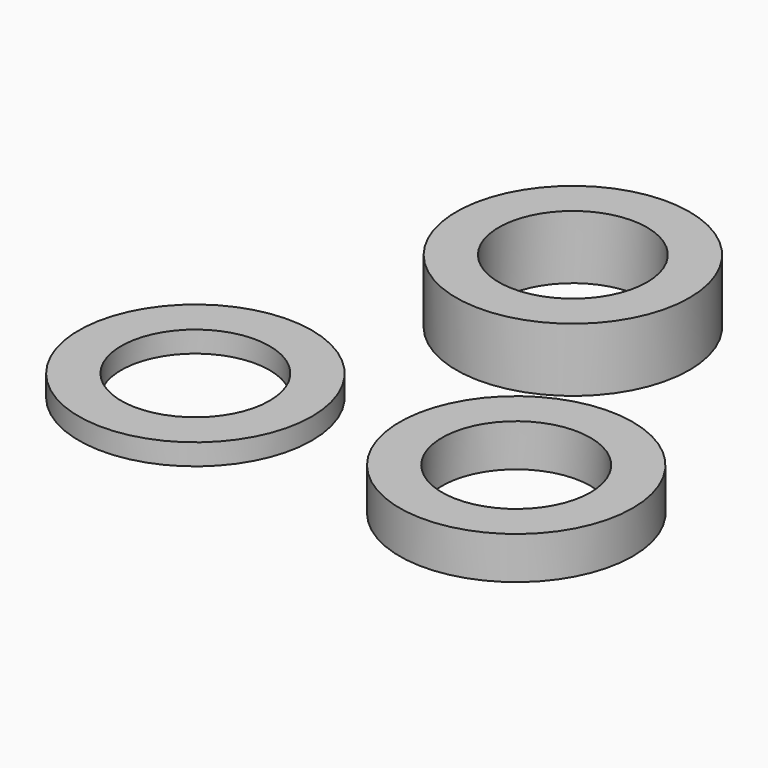
from build123d import *

# Parameters (mm, degrees)
F0_R     = 5.5
F0_R_2   = 3.5
F1_DEPTH = 1
F2_DEPTH = 2
F3_DEPTH = 3


with BuildPart() as f1:
    # F0 (on Top) → F1 (new body)
    with BuildSketch(Plane.XY):
        with Locations((-14.998996, 25.176784)):
            Circle(F0_R)
        with Locations((-14.998996, 25.176784)):
            Circle(F0_R_2, mode=Mode.SUBTRACT)
    extrude(amount=F1_DEPTH)


with BuildPart() as f2:
    # F0 (on Top) → F2 (new body)
    with BuildSketch(Plane.XY):
        with Locations((0, 25.350336)):
            Circle(F0_R)
        with Locations((0, 25.350336)):
            Circle(F0_R_2, mode=Mode.SUBTRACT)
    extrude(amount=F2_DEPTH)


with BuildPart() as f3:
    # F0 (on Top) → F3 (new body)
    with BuildSketch(Plane.XY):
        with Locations((-7.649799, 38.253071)):
            Circle(F0_R)
        with Locations((-7.649799, 38.253071)):
            Circle(F0_R_2, mode=Mode.SUBTRACT)
    extrude(amount=F3_DEPTH)


solid = Compound([f1.part, f2.part, f3.part])
